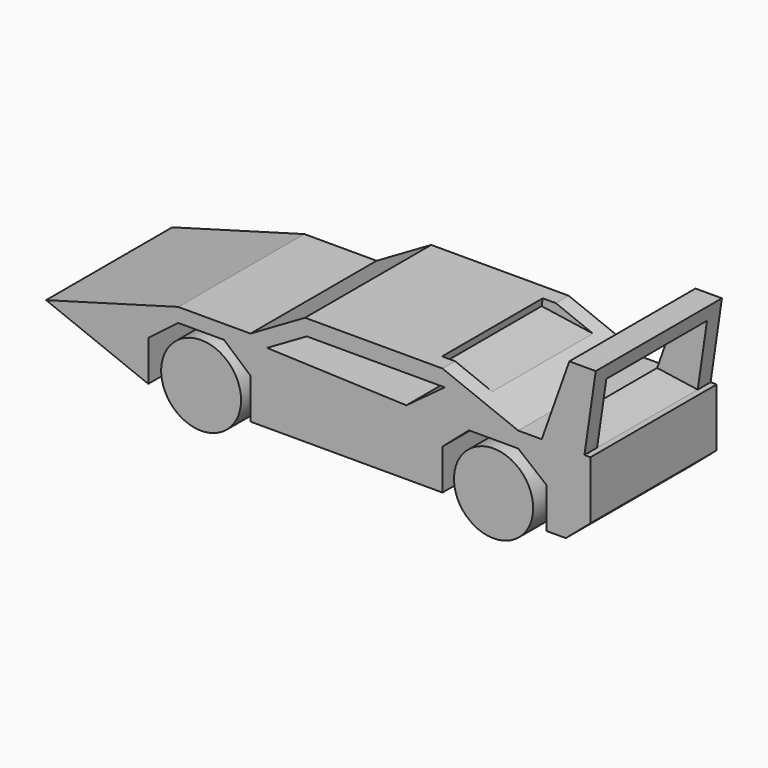
from build123d import *

# Parameters (mm, degrees)
F0_R      = 6.4324551625
F1_DEPTH  = 25.4
F0_R_2    = 6.3758906755
F3_DEPTH  = 25.4
F5_DEPTH  = 25.4
F7_DEPTH  = 22.86
F8_W      = 20.260772435
F8_H      = 10.3689224105
F9_DEPTH  = 25.4
F11_DEPTH = 25.4


with BuildPart() as f1:
    # F0 (on Front) → F1 (new body)
    with BuildSketch(Plane.XZ):
        with Locations((-33.0537781119, 5.6744683534)):
            Circle(F0_R)
    extrude(amount=F1_DEPTH)

    # F6 (on Front) → F7 (cut)
    with BuildSketch(Plane.XZ):
        Polygon((-14.8954782635, 17.8745742887), (-19.4350536913, 14.7536173463), (5.2488842048, 14.7536173463), (5.2488842048, 17.8745742887), align=None)
    extrude(amount=-F7_DEPTH, mode=Mode.SUBTRACT)


with BuildPart() as f1b:
    # F0 (on Front) → F1, piece 2 (new body)
    with BuildSketch(Plane.XZ):
        with Locations((14.0443081036, 5.6744683534)):
            Circle(F0_R_2)
    extrude(amount=F1_DEPTH)


with BuildPart() as f3:
    # F2 (on Front) → F3 (new body)
    with BuildSketch(Plane.XZ):
        Polygon((-25.1095220447, 9.6465954557), (-25.1095220447, 3.1209576409), (5.8163302019, 3.1209576409), (5.8163302019, 9.6465954557), (10.0721819326, 13.3350007236), (18.0071789661, 13.3350007236), (22.5560087711, 9.6465954557), (22.5560087711, 3.1209576409), (25.6769694388, 3.1209576409), (29.6490956098, 6.5256385133), (29.6490956098, 15.8775064075), (18.0071789661, 15.8775064075), (5.8163302019, 20.7118075341), (-16.3140948862, 20.7118075341), (-25.1095220447, 15.6047875062), (-36.7421805859, 15.6047875062), (-58.0214373767, 9.6465954557), (-41.5654778481, 3.1209576409), (-41.5654778481, 9.6465954557), (-36.7421805859, 13.3350007236), (-29.3653719127, 13.3350007236), align=None)
    extrude(amount=F3_DEPTH)

    # F4 (on Front) → F5 (join)
    with BuildSketch(Plane.XZ):
        Polygon((21.7048414052, 15.6047875062), (28.5142026842, 14.7536173463), (30.5002648383, 28.372341767), (26.2444131076, 28.372341767), align=None)
    extrude(amount=F5_DEPTH)

    # F8 (on face) → F9 (cut)
    with BuildSketch(Plane(origin=(25.8136482921, 0, -3.7644869189), x_dir=(0, 1, 0), z_dir=(0.989533, 0, -0.1443067633))):
        with Locations((-12.7233496169, 25.0342219779)):
            Rectangle(F8_W, F8_H)
    extrude(amount=-F9_DEPTH, mode=Mode.SUBTRACT)

    # F10 (on face) → F11 (cut)
    with BuildSketch(Plane.XZ.offset(25.4)):
        Polygon((-16.0416022874, 18.1582975201), (-22.4394258112, 14.4434338436), (0, 13.6015424505), (6.1849080957, 18.1582975201), align=None)
    extrude(amount=-F11_DEPTH, mode=Mode.SUBTRACT)


solid = Compound([f1.part, f1b.part, f3.part])
